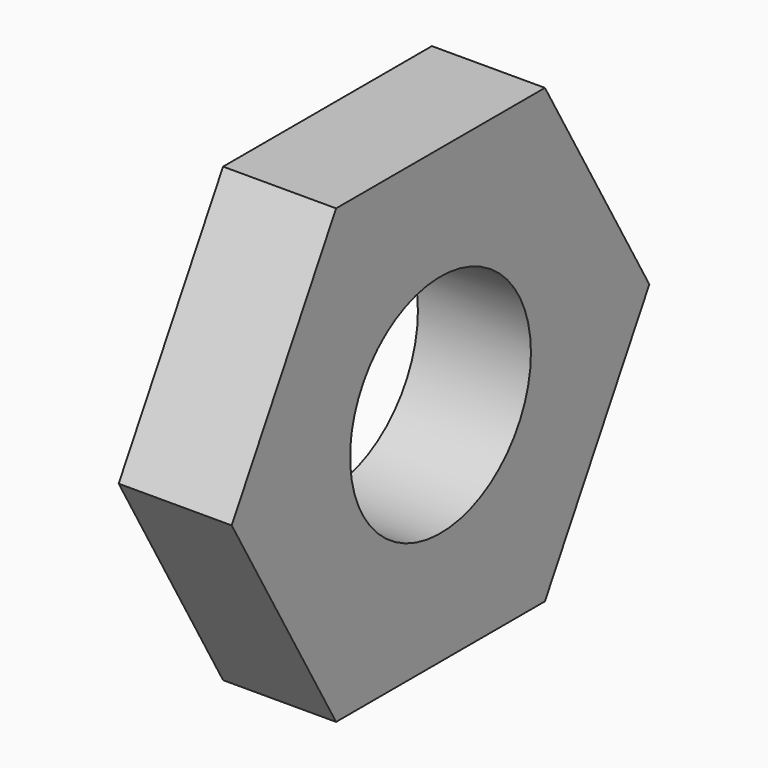
from build123d import *

# Parameters (mm, degrees)
F0_R     = 2.5
F1_DEPTH = 2.5


with BuildPart() as f1:
    # F0 (on Right) → F1 (new body)
    with BuildSketch(Plane.YZ):
        Polygon((2.886751, 5), (-2.886751, 5), (-5.773503, 0), (-2.886751, -5), (2.886751, -5), (5.773503, 0), align=None)
        Circle(F0_R, mode=Mode.SUBTRACT)
    extrude(amount=F1_DEPTH)


solid = f1.part
